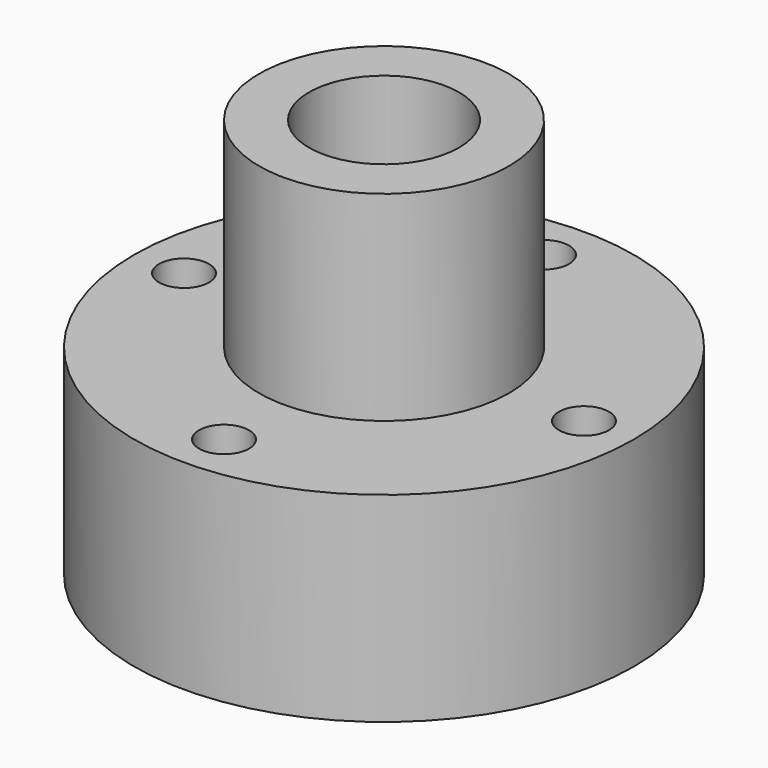
from build123d import *

# Parameters (mm, degrees)
F0_R     = 15.875
F1_DEPTH = 12.7
F2_R     = 7.9375
F3_DEPTH = 25.4
F4_R     = 4.7625
F5_DEPTH = 25.4
F6_R     = 1.5875
F7_DEPTH = 12.7


with BuildPart() as f1:
    # F0 (on Top) → F1 (new body)
    with BuildSketch(Plane.XY):
        Circle(F0_R)
    extrude(amount=F1_DEPTH)

    # F2 (on Top) → F3 (join)
    with BuildSketch(Plane.XY):
        Circle(F2_R)
    extrude(amount=F3_DEPTH)

    # F4 (on Top) → F5 (cut)
    with BuildSketch(Plane.XY):
        Circle(F4_R)
    extrude(amount=F5_DEPTH, mode=Mode.SUBTRACT)

    # F6 (on Top) → F7 (cut)
    with BuildSketch(Plane.XY):
        with Locations((0, 12.7)):
            Circle(F6_R)
        with Locations((12.7, 0)):
            Circle(F6_R)
        with Locations((-12.7, 0)):
            Circle(F6_R)
        with Locations((0, -12.7)):
            Circle(F6_R)
    extrude(amount=F7_DEPTH, mode=Mode.SUBTRACT)


solid = f1.part
